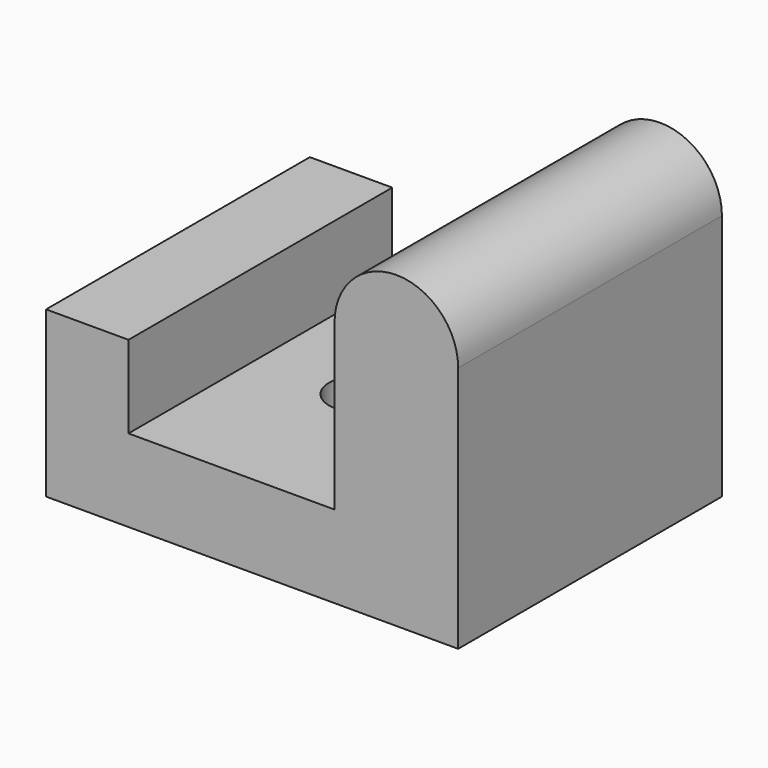
from build123d import *

# Parameters (mm, degrees)
F1_DEPTH = 50.8
F3_D     = 19.05


with BuildPart() as f1:
    # F0 (on Front) → F1 (new body, symmetric)
    with BuildSketch(Plane.XZ):
        with BuildLine():
            Line((0, 0), (0, 76.2))
            ThreePointArc((0, 76.2), (-19.05, 95.25), (-38.1, 76.2))
            Line((-38.1, 76.2), (-38.1, 25.4))
            Line((-38.1, 25.4), (-101.6, 25.4))
            Line((-101.6, 25.4), (-101.6, 50.8))
            Line((-101.6, 50.8), (-127, 50.8))
            Line((-127, 50.8), (-127, 0))
            Line((-127, 0), (0, 0))
        make_face()
    extrude(amount=F1_DEPTH, both=True)

    # F3 (through all)
    with Locations(Plane(origin=(0, 0, 0), x_dir=(1, 0, 0), z_dir=(0, 0, -1))):
        with Locations((-70.8979144692, 0)):
            Hole(F3_D / 2)


solid = f1.part
